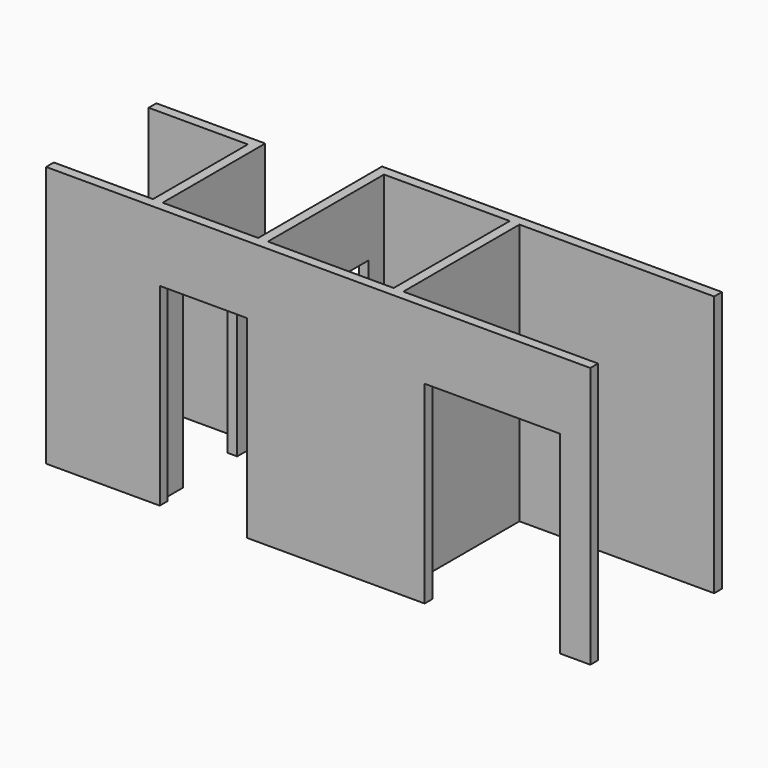
from build123d import *

# Parameters (mm, degrees)
F0_W      = 1320.8
F0_H      = 1524
F1_DEPTH  = 2743.2
F2_W      = 1422.4
F2_H      = 2032
F3_DEPTH  = 101.6
F4_W      = 711.2
F4_H      = 2032
F5_DEPTH  = 101.6
F6_W      = 914.4
F6_H      = 2032
F7_DEPTH  = 101.6
F8_W      = 711.2
F8_H      = 2032
F9_DEPTH  = 101.6
F11_DEPTH = 1143


with BuildPart() as f1:
    # F0 (on Top) → F1 (new body)
    with BuildSketch(Plane.XY):
        Polygon((-1714.5, 1308.1), (-2857.5, 1308.1), (-2857.5, 1206.5), (-1816.1, 1206.5), (-1816.1, -38.1), (-2857.5, -38.1), (-2857.5, -139.7), (2857.5, -139.7), (2857.5, -38.1), (812.8, -38.1), (812.8, 1485.9), (2857.5, 1485.9), (2857.5, 1587.5), (-711.2, 1587.5), (-711.2, -38.1), (-1714.5, -38.1), align=None)
        with Locations((50.8, 723.9)):
            Rectangle(F0_W, F0_H, mode=Mode.SUBTRACT)
    extrude(amount=F1_DEPTH)

    # F2 (on face) → F3 (cut)
    with BuildSketch(Plane(origin=(0, -38.1, 0), x_dir=(-1, 0, 0), z_dir=(0, 1, 0))):
        with Locations((-1828.8, 1016)):
            Rectangle(F2_W, F2_H)
    extrude(amount=-F3_DEPTH, mode=Mode.SUBTRACT)

    # F4 (on face) → F5 (cut)
    with BuildSketch(Plane(origin=(-711.2, 0, 0), x_dir=(0, -1, 0), z_dir=(-1, 0, 0))):
        with Locations((-927.1, 1016)):
            Rectangle(F4_W, F4_H)
    extrude(amount=-F5_DEPTH, mode=Mode.SUBTRACT)

    # F6 (on face) → F7 (cut)
    with BuildSketch(Plane(origin=(0, -38.1, 0), x_dir=(-1, 0, 0), z_dir=(0, 1, 0))):
        with Locations((1206.5, 1016)):
            Rectangle(F6_W, F6_H)
    extrude(amount=-F7_DEPTH, mode=Mode.SUBTRACT)

    # F8 (on face) → F9 (cut)
    with BuildSketch(Plane(origin=(-1816.1, 0, 0), x_dir=(0, -1, 0), z_dir=(-1, 0, 0))):
        with Locations((-584.2, 1016)):
            Rectangle(F8_W, F8_H)
    extrude(amount=-F9_DEPTH, mode=Mode.SUBTRACT)

    # F10 (on face) → F11 (join, through all)
    with BuildSketch(Plane(origin=(-2857.5, 0, 0), x_dir=(0, -1, 0), z_dir=(-1, 0, 0))):
        Polygon((-3238.5, 0), (-1308.1, 0), (-1308.1, 1828.8), (-3238.5, 177.8), align=None)
    extrude(amount=-F11_DEPTH)


solid = f1.part
